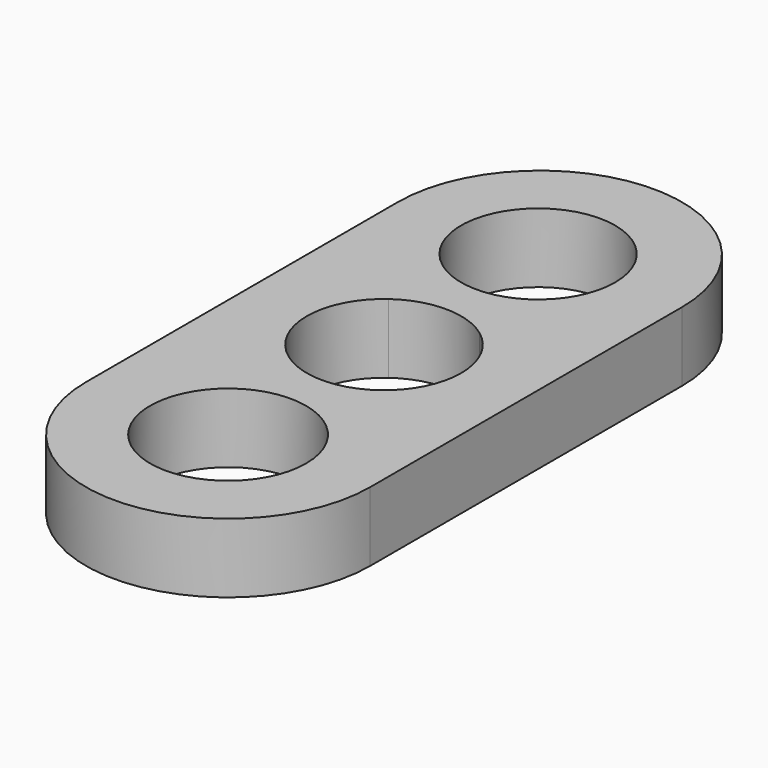
from build123d import *

# Parameters (mm, degrees)
F0_R     = 7.778434
F0_R_2   = 7.877406
F1_DEPTH = 7


with BuildPart() as f1:
    # F0 (on Top) → F1 (new body)
    with BuildSketch(Plane.XY):
        with BuildLine():
            Line((-24.244773, 25.964786), (-34.002946, 39.3446))
            Line((-34.002946, 39.3446), (-34.002946, 0))
            Line((-34.002946, 0), (-24.244773, 13.379814))
            ThreePointArc((-24.244773, 13.379814), (-27.443761, 19.6723), (-24.244773, 25.964786))
        make_face()
        with BuildLine():
            Line((-5.30812, 0), (-5.30812, 39.3446))
            Line((-5.30812, 39.3446), (-15.066294, 25.964786))
            ThreePointArc((-15.066294, 25.964786), (-12.712963, 23.20178), (-11.867305, 19.6723))
            ThreePointArc((-11.867305, 19.6723), (-12.712963, 16.14282), (-15.066294, 13.379814))
            Line((-15.066294, 13.379814), (-5.30812, 0))
        make_face()
        with BuildLine():
            Line((-15.066294, 25.964786), (-5.30812, 39.3446))
            ThreePointArc((-5.30812, 39.3446), (-19.655533, 53.692013), (-34.002946, 39.3446))
            Line((-34.002946, 39.3446), (-24.244773, 25.964786))
            ThreePointArc((-24.244773, 25.964786), (-19.655533, 27.460528), (-15.066294, 25.964786))
        make_face()
        with Locations((-19.839631, 39.3446)):
            Circle(F0_R, mode=Mode.SUBTRACT)
        with BuildLine():
            ThreePointArc((-34.002946, 0), (-19.655533, -14.347413), (-5.30812, 0))
            Line((-5.30812, 0), (-15.066294, 13.379814))
            ThreePointArc((-15.066294, 13.379814), (-19.655533, 11.884072), (-24.244773, 13.379814))
            Line((-24.244773, 13.379814), (-34.002946, 0))
        make_face()
        with Locations((-19.655533, 0)):
            Circle(F0_R_2, mode=Mode.SUBTRACT)
    extrude(amount=F1_DEPTH)


solid = f1.part
